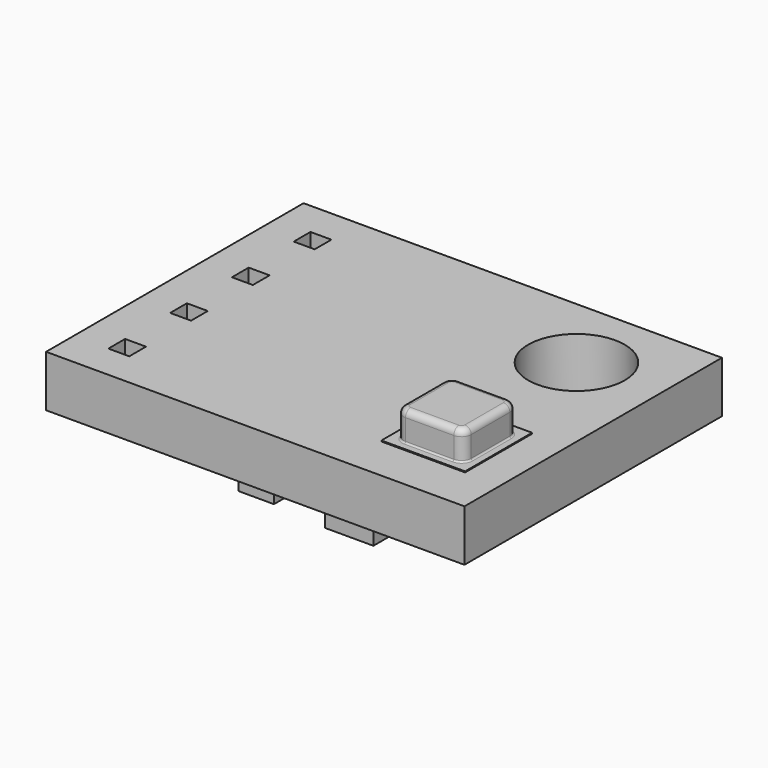
from build123d import *

# Parameters (mm, degrees)
SKETCH_W      = 13
SKETCH_H      = 10
PAD_DEPTH     = 1.6
SKETCH001_R   = 1.5
SKETCH001_W   = 0.65
SKETCH001_H   = 0.65
POCKET_DEPTH  = 5
SKETCH002_W   = 2.6
SKETCH002_H   = 2.6
PAD001_DEPTH  = 0.03
SKETCH003_W   = 2.1
SKETCH003_H   = 2.1
PAD002_DEPTH  = 0.9
FILLET_R      = 0.3
FILLET001_R   = 0.05
FILLET002_R   = 0.2
SKETCH004_W   = 1.1
SKETCH004_H   = 2
SKETCH004_W_2 = 1.5
SKETCH004_H_2 = 0.9
SKETCH004_H_3 = 0.75
SKETCH004_H_4 = 2.9
SKETCH004_W_3 = 3.2
SKETCH004_H_5 = 1.4
SKETCH004_W_4 = 0.8
SKETCH004_H_6 = 1.6
PAD003_DEPTH  = 1


with BuildPart() as part:
    # Sketch (on XY_Plane of Origin) → Pad (new body)
    with BuildSketch(Plane.XY):
        with Locations((6.5, 5)):
            Rectangle(SKETCH_W, SKETCH_H)
    extrude(amount=PAD_DEPTH)

    # Sketch001 (on XY_Plane of Origin) → Pocket (cut)
    with BuildSketch(Plane.XY):
        with Locations((10.4, 7.6)):
            Circle(SKETCH001_R)
        with Locations((1.4, 8.6)):
            Rectangle(SKETCH001_W, SKETCH001_H)
        with Locations((1.4, 6.2)):
            Rectangle(SKETCH001_W, SKETCH001_H)
        with Locations((1.4, 3.8)):
            Rectangle(SKETCH001_W, SKETCH001_H)
        with Locations((1.4, 1.4)):
            Rectangle(SKETCH001_W, SKETCH001_H)
    extrude(amount=POCKET_DEPTH, mode=Mode.SUBTRACT)

    # Sketch002 (on Face5 of Pocket) → Pad001 (join)
    with BuildSketch(Plane.XY.offset(1.6)):
        with Locations((10.6, 2.7)):
            Rectangle(SKETCH002_W, SKETCH002_H)
    extrude(amount=PAD001_DEPTH)

    # Sketch003 (on Face28 of Pad001) → Pad002 (join)
    with BuildSketch(Plane.XY.offset(1.63)):
        with Locations((10.6, 2.7)):
            Rectangle(SKETCH003_W, SKETCH003_H)
    extrude(amount=PAD002_DEPTH)

    # Fillet
    fillet_edges = [part.edges().sort_by_distance(p)[0] for p in [
        (9.55, 1.65, 2.08),
        (9.55, 3.75, 2.08),
        (11.65, 1.65, 2.08),
        (11.65, 3.75, 2.08),
    ]]
    fillet(fillet_edges, radius=FILLET_R)

    # Fillet001
    fillet001_edges = [part.edges().sort_by_distance(p)[0] for p in [
        (9.637868, 1.737868, 1.63),
    ]]
    fillet(fillet001_edges, radius=FILLET001_R)

    # Fillet002
    fillet002_edges = [part.edges().sort_by_distance(p)[0] for p in [
        (10.6, 1.65, 2.53),
    ]]
    fillet(fillet002_edges, radius=FILLET002_R)

    # Sketch004 (on Face53 of Fillet002) → Pad003 (join)
    with BuildSketch(Plane(origin=(0, 0, 0), x_dir=(1, 0, 0), z_dir=(0, 0, -1))):
        with Locations((5.65, -2.1)):
            Rectangle(SKETCH004_W, SKETCH004_H)
        with Locations((8.7, -1.35)):
            Rectangle(SKETCH004_W_2, SKETCH004_H_2)
        with Locations((8.7, -2.95)):
            Rectangle(SKETCH004_W_2, SKETCH004_H_2)
        with Locations((8.7, -4.425)):
            Rectangle(SKETCH004_W_2, SKETCH004_H_3)
        with Locations((5.85, -7.65)):
            Rectangle(SKETCH004_W, SKETCH004_H_4)
        with Locations((4.8, -4.8)):
            Rectangle(SKETCH004_W_3, SKETCH004_H_5)
        with Locations((3.3, -8)):
            Rectangle(SKETCH004_W_4, SKETCH004_H_6)
    extrude(amount=PAD003_DEPTH)


solid = part.part
